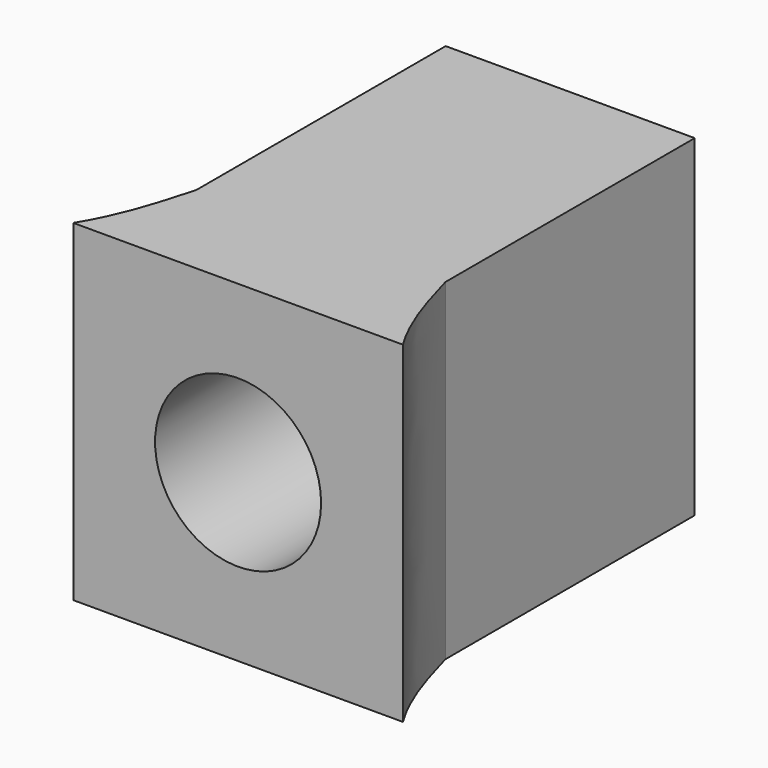
from build123d import *

# Parameters (mm, degrees)
F1_DEPTH = 20
F2_R     = 5
F2_R_2   = 2
F3_DEPTH = 25
F4_DEPTH = 25


with BuildPart() as f1:
    # F0 (on Top) → F1 (new body)
    with BuildSketch(Plane.XY):
        with BuildLine():
            Line((-9.9256848916, -12.5), (-7.5, -12.5))
            Line((-7.5, -12.5), (7.5, -12.5))
            Line((7.5, -12.5), (9.9256848916, -12.5))
            add(Edge.make_bspline(
                [(7.5, -6.2737814151), (8.087411693, -8.3720675571), (8.674823386, -10.4703536991), (9.9256848916, -12.5)],
                knots=[0, 0, 0, 0, 0.4559339128, 0.4559339128, 0.4559339128, 0.4559339128], degree=3))
            Line((7.5, -6.2737814151), (7.5, 12.5))
            Line((7.5, 12.5), (-7.5, 12.5))
            Line((-7.5, 12.5), (-7.5, -6.2737814151))
            add(Edge.make_bspline(
                [(-7.5, -6.2737814151), (-8.087411693, -8.3720675571), (-8.674823386, -10.4703536991), (-9.9256848916, -12.5)],
                knots=[0, 0, 0, 0, 0.4559339128, 0.4559339128, 0.4559339128, 0.4559339128], degree=3))
        make_face()
    extrude(amount=F1_DEPTH)

    # F2 (on Front) → F3 (cut)
    with BuildSketch(Plane.XZ):
        with Locations((0, 10)):
            Circle(F2_R)
        with Locations((0, 10)):
            Circle(F2_R_2, mode=Mode.SUBTRACT)
        with Locations((0, 10)):
            Circle(F2_R_2)
    extrude(amount=F3_DEPTH, mode=Mode.SUBTRACT)

    # F2 (on Front) → F4 (cut)
    with BuildSketch(Plane.XZ):
        with Locations((0, 10)):
            Circle(F2_R_2)
    extrude(amount=-F4_DEPTH, mode=Mode.SUBTRACT)


solid = f1.part
